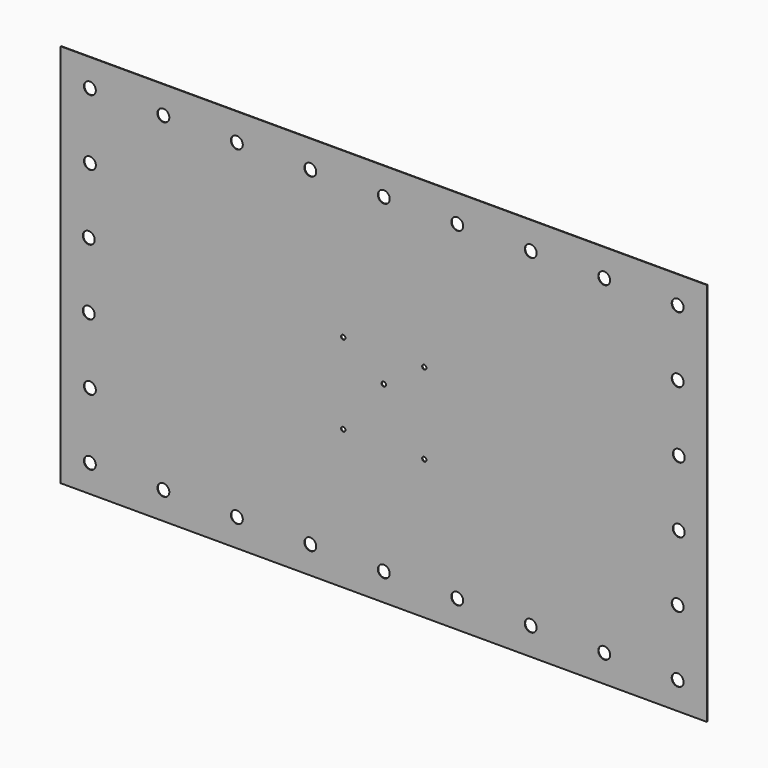
from build123d import *

# Parameters (mm, degrees)
F0_W     = 598
F0_H     = 356
F0_R     = 2
F0_R_2   = 2.053233
F1_DEPTH = 0.5
F2_R     = 5.5
F3_DEPTH = 0.5


with BuildPart() as f1:
    # F0 (on Front) → F1 (new body)
    with BuildSketch(Plane.XZ):
        Rectangle(F0_W, F0_H)
        with Locations((-37.5, -49)):
            Circle(F0_R, mode=Mode.SUBTRACT)
        with Locations((37.5, -49)):
            Circle(F0_R, mode=Mode.SUBTRACT)
        with Locations((-37.5, 26)):
            Circle(F0_R, mode=Mode.SUBTRACT)
        Circle(F0_R_2, mode=Mode.SUBTRACT)
        with Locations((37.5, 26)):
            Circle(F0_R, mode=Mode.SUBTRACT)
    extrude(amount=F1_DEPTH)

    # F2 (on face) → F3 (cut, through all)
    with BuildSketch(Plane.XZ.offset(0.5)):
        with Locations((0, 152.6)):
            Circle(F2_R)
        with Locations((68, 152.6)):
            Circle(F2_R)
        with Locations((136, 152.6)):
            Circle(F2_R)
        with Locations((204, 152.6)):
            Circle(F2_R)
        with Locations((272, 152.6)):
            Circle(F2_R)
        with Locations((272, 91.6)):
            Circle(F2_R)
        with Locations((273.05, 30.48)):
            Circle(F2_R)
        with Locations((273.05, -30.48)):
            Circle(F2_R)
        with Locations((272, -91.6)):
            Circle(F2_R)
        with Locations((-136, 152.6)):
            Circle(F2_R)
        with Locations((-68, 152.6)):
            Circle(F2_R)
        with Locations((-204, 152.6)):
            Circle(F2_R)
        with Locations((-272, 152.6)):
            Circle(F2_R)
        with Locations((-272, -91.6)):
            Circle(F2_R)
        with Locations((-272, -152.6)):
            Circle(F2_R)
        with Locations((-204, -152.6)):
            Circle(F2_R)
        with Locations((272, -152.6)):
            Circle(F2_R)
        with Locations((-272, 91.6)):
            Circle(F2_R)
        with Locations((-68, -152.6)):
            Circle(F2_R)
        with Locations((-273.05, 30.48)):
            Circle(F2_R)
        with Locations((136, -152.6)):
            Circle(F2_R)
        with Locations((68, -152.6)):
            Circle(F2_R)
        with Locations((0, -152.6)):
            Circle(F2_R)
        with Locations((-136, -152.6)):
            Circle(F2_R)
        with Locations((-273.05, -30.48)):
            Circle(F2_R)
        with Locations((204, -152.6)):
            Circle(F2_R)
    extrude(amount=-F3_DEPTH, mode=Mode.SUBTRACT)


solid = f1.part
